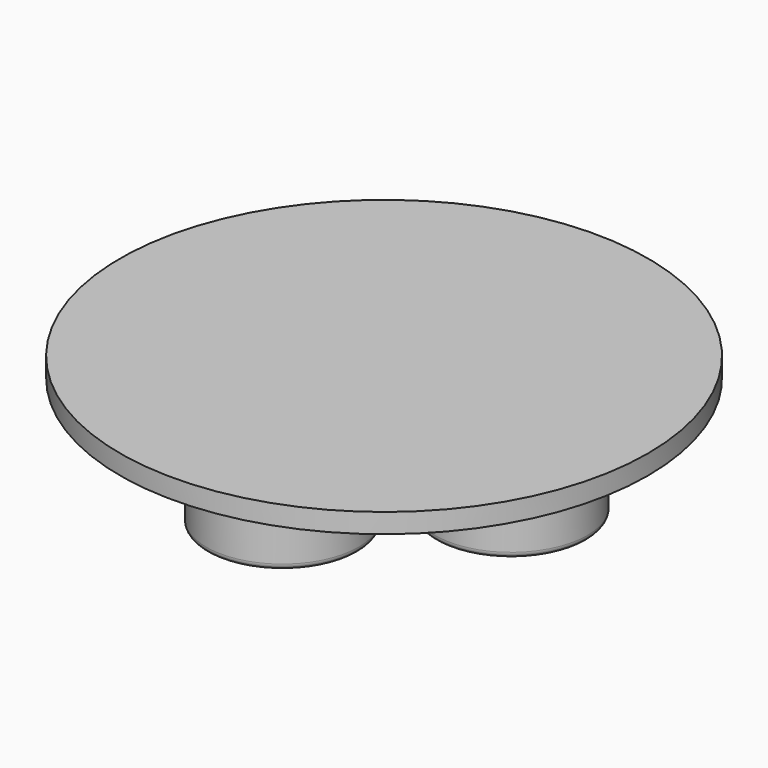
from build123d import *

# Parameters (mm, degrees)
F0_R     = 13.5
F1_DEPTH = 1
F2_R     = 3.9
F3_DEPTH = 4
F4_R     = 0.3


with BuildPart() as f1:
    # F0 (on Top) → F1 (new body)
    with BuildSketch(Plane.XY):
        with Locations((-69.12829, 46.924345)):
            Circle(F0_R)
        with Locations((-69.12829, 46.924345)):
            Circle(F0_R)
    extrude(amount=F1_DEPTH)

    # F2 (on face) → F3 (join)
    with BuildSketch(Plane(origin=(0, 0, 0), x_dir=(1, 0, 0), z_dir=(0, 0, -1))):
        with Locations((-62.62829, -46.924345)):
            Circle(F2_R)
        with Locations((-69.12829, -40.424345)):
            Circle(F2_R)
        with Locations((-75.62829, -46.924345)):
            Circle(F2_R)
        with Locations((-69.12829, -53.424345)):
            Circle(F2_R)
    extrude(amount=F3_DEPTH)

    # F4
    f4_edges = [f1.edges().sort_by_distance(p)[0] for p in [
        (-73.02829, 53.424345, -4),
        (-66.52829, 46.924345, -4),
        (-73.02829, 40.424345, -4),
        (-79.52829, 46.924345, -4),
    ]]
    fillet(f4_edges, radius=F4_R)


solid = f1.part
